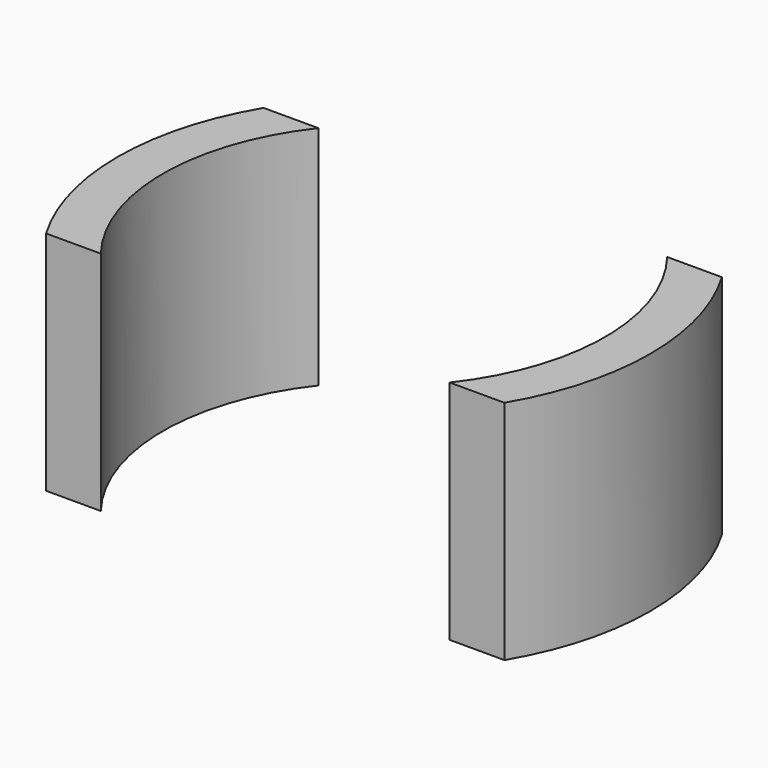
from build123d import *

# Parameters (mm, degrees)
F1_DEPTH = 15.875


with BuildPart() as f1:
    # F0 (on Top) → F1 (new body)
    with BuildSketch(Plane.XY):
        with BuildLine():
            ThreePointArc((-12.22041, -9.525), (-15.494, 0), (-12.22041, 9.525))
            Line((-12.22041, 9.525), (-16.056336, 9.525))
            ThreePointArc((-16.056336, 9.525), (-18.669, 0), (-16.056336, -9.525))
            Line((-16.056336, -9.525), (-12.22041, -9.525))
        make_face()
        with BuildLine():
            Line((16.056336, 9.525), (12.22041, 9.525))
            ThreePointArc((12.22041, 9.525), (15.494, 0), (12.22041, -9.525))
            Line((12.22041, -9.525), (16.056336, -9.525))
            ThreePointArc((16.056336, -9.525), (18.669, 0), (16.056336, 9.525))
        make_face()
    extrude(amount=F1_DEPTH)


solid = f1.part
